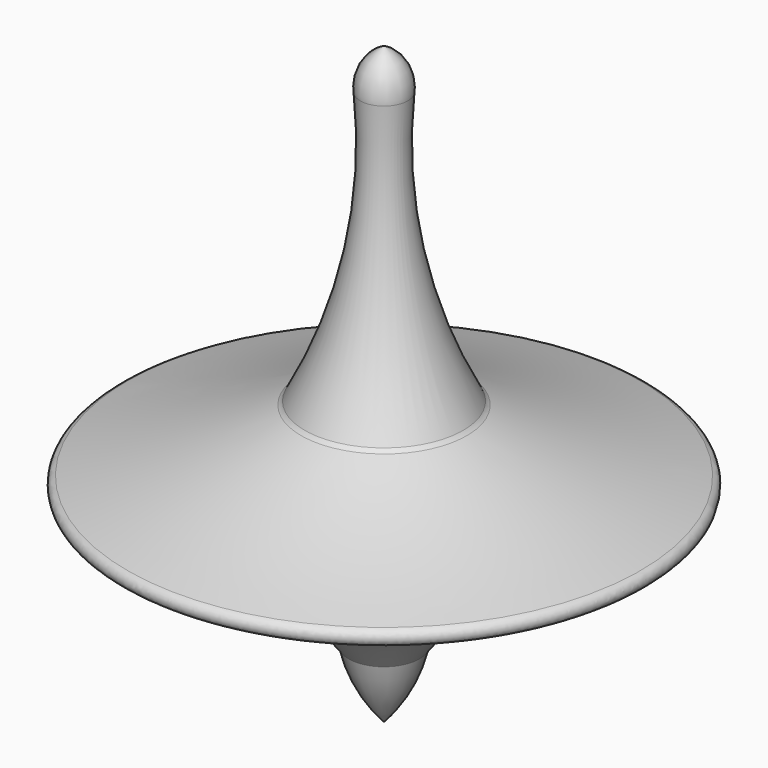
from build123d import *

# Parameters (mm, degrees)
F2_R = 0.668929


with BuildPart() as f1:
    # F0 (on Front) → F1 (revolve)
    with BuildSketch(Plane.XZ):
        with BuildLine():
            ThreePointArc((-26.867146, 0), (-13.377451, -2.497105), (-2.956916, -11.420101))
            ThreePointArc((-2.956916, -11.420101), (-1.849267, -14.41959), (0, -17.028045))
            Line((0, -17.028045), (0, 32.971955))
            ThreePointArc((0, 32.971955), (-1.581359, 31.622835), (-2.000358, 29.586843))
            ThreePointArc((-2.000358, 29.586843), (-2.66234, 17.698106), (-6.774757, 6.523657))
            ThreePointArc((-6.774757, 6.523657), (-16.617735, 2.635934), (-26.867146, 0))
        make_face()
    revolve(axis=Axis((0, 0, 7.971955), (0, 0, -1)))

    # F2
    f2_edges = [f1.edges().sort_by_distance(p)[0] for p in [
        (6.774757, 0, 6.523657),
        (26.867146, 0, 0),
        (-16.617735, 0, 2.635934),
    ]]
    fillet(f2_edges, radius=F2_R)


solid = f1.part
